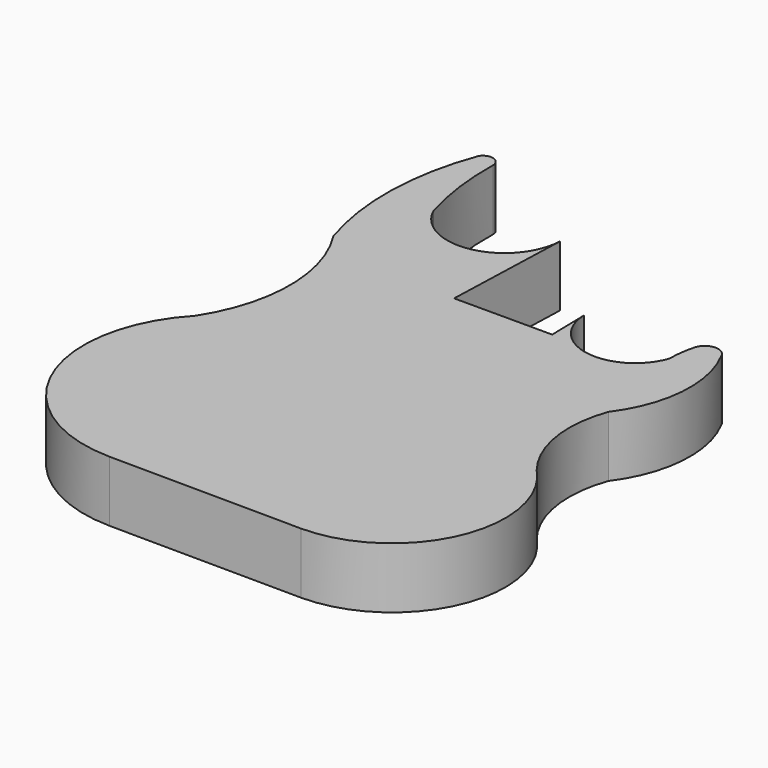
from build123d import *

# Parameters (mm, degrees)
F1_DEPTH = 8


with BuildPart() as f1:
    # F0 (on Top) → F1 (new body)
    with BuildSketch(Plane.XY):
        with BuildLine():
            ThreePointArc((-22.320384, 37.284736), (-23.263984, 38.564915), (-24.756342, 38.015275))
            ThreePointArc((-24.756342, 38.015275), (-26.981717, 26.443672), (-25.26974, 14.785052))
            ThreePointArc((-25.26974, 14.785052), (-21.935091, 3.464465), (-25.26974, -7.856121))
            ThreePointArc((-25.26974, -7.856121), (-28.751629, -26.990225), (-12.597982, -37.820607))
            Line((-12.597982, -37.820607), (12.745535, -38.015275))
            ThreePointArc((12.745535, -38.015275), (26.453322, -28.963682), (23.512441, -12.802433))
            ThreePointArc((23.512441, -12.802433), (20.408827, -5.743308), (21.152526, 1.932014))
            ThreePointArc((21.152526, 1.932014), (24.249971, 10.178542), (22.457181, 18.803233))
            ThreePointArc((22.457181, 18.803233), (20.710054, 19.941019), (19.103626, 18.611961))
            ThreePointArc((19.103626, 18.611961), (18.754965, 16.860274), (18.642606, 15.077762))
            ThreePointArc((18.642606, 15.077762), (11.380168, 10.724897), (5.807312, 17.099355))
            Line((5.807312, 17.099355), (5.926674, 11.730988))
            Line((5.926674, 11.730988), (-6.965742, 11.730988))
            Line((-6.965742, 11.730988), (-6.394247, 28.42899))
            ThreePointArc((-6.394247, 28.42899), (-12.479398, 21.302216), (-20.787548, 25.637491))
            ThreePointArc((-20.787548, 25.637491), (-21.998091, 31.402664), (-22.320384, 37.284736))
        make_face()
    extrude(amount=-F1_DEPTH)


solid = f1.part
